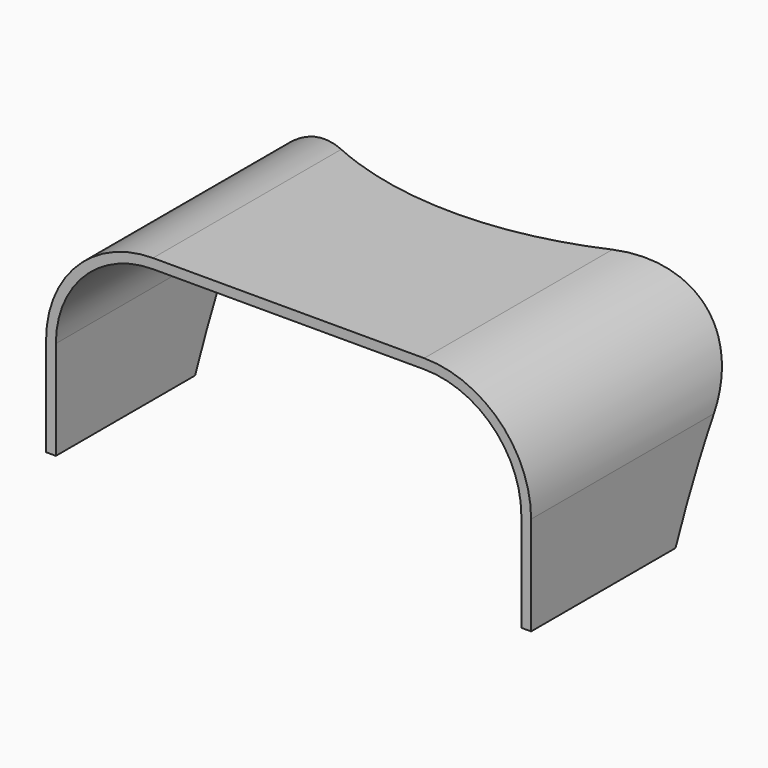
from build123d import *

# Parameters (mm, degrees)
EXTRUDE003_DEPTH = 110


with BuildPart() as neg_dome:
    # Sketch006 → Revolve002 (revolve)
    with BuildSketch(Plane.XZ):
        with BuildLine():
            add(Edge.make_bspline(
                [(-88.333, 0), (-61.873, 79.23), (0, 75)],
                knots=[0, 0, 0, 1, 1, 1], degree=2))
            Line((0, 75), (0, 0))
            Line((0, 0), (-88.333, 0))
        make_face()
    revolve(axis=Axis((0, 0, 0), (0, 0, 1)))


with BuildPart() as pos_cap:
    # Sketch003 → Extrude003 (new body)
    with BuildSketch(Plane.XZ):
        with BuildLine():
            Line((-47.5, 0), (-47.5, 20.17919))
            ThreePointArc((-27.67919, 40), (-41.694619, 34.194619), (-47.5, 20.17919))
            Line((27.67919, 40), (-27.67919, 40))
            ThreePointArc((47.5, 20.17919), (41.694619, 34.194619), (27.67919, 40))
            Line((47.5, 0), (47.5, 20.17919))
            Line((47.5, 0), (49.5, 0))
            Line((49.5, 0), (49.5, 20.17919))
            ThreePointArc((49.5, 20.17919), (43.108833, 35.608833), (27.67919, 42))
            Line((-27.67919, 42), (27.67919, 42))
            ThreePointArc((-27.67919, 42), (-43.108833, 35.608833), (-49.5, 20.17919))
            Line((-49.5, 0), (-49.5, 20.17919))
            Line((-47.5, 0), (-49.5, 0))
        make_face()
    extrude(amount=EXTRUDE003_DEPTH)

    # Cut002: cut neg_dome
    add(neg_dome.part, mode=Mode.SUBTRACT)


solid = pos_cap.part
